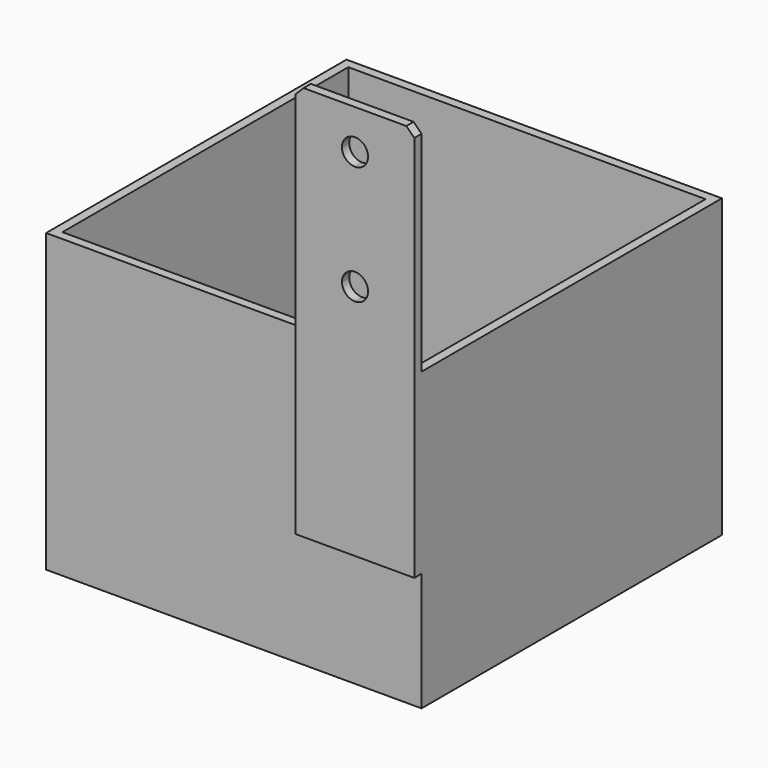
from build123d import *

# Parameters (mm, degrees)
F0_W     = 27.7
F0_H     = 45
F0_W_2   = 2.3
F1_DEPTH = 2.3
F2_DEPTH = 95
F4_DEPTH = 72.7


with BuildPart() as f1:
    # F0 (on Front) → F1 (new body)
    with BuildSketch(Plane.XZ):
        with Locations((-90.369921, -12.07692)):
            Rectangle(F0_W, F0_H)
        Polygon((-76.519921, 10.42308), (-74.219921, 10.42308), (-74.219921, 63.42308), (-76.219921, 65.42308), (-102.219921, 65.42308), (-104.219921, 63.42308), (-104.219921, 10.42308), align=None)
        with BuildLine():
            ThreePointArc((-89.219921, 22.12308), (-91.553373, 23.089628), (-92.519921, 25.42308))
            ThreePointArc((-92.519921, 25.42308), (-91.553373, 27.756532), (-89.219921, 28.72308))
            ThreePointArc((-89.219921, 28.72308), (-86.886469, 27.756532), (-85.919921, 25.42308))
            ThreePointArc((-85.919921, 25.42308), (-86.886469, 23.089628), (-89.219921, 22.12308))
        make_face(mode=Mode.SUBTRACT)
        with BuildLine():
            ThreePointArc((-89.219921, 52.12308), (-91.553373, 53.089628), (-92.519921, 55.42308))
            ThreePointArc((-92.519921, 55.42308), (-91.553373, 57.756532), (-89.219921, 58.72308))
            ThreePointArc((-89.219921, 58.72308), (-86.886469, 57.756532), (-85.919921, 55.42308))
            ThreePointArc((-85.919921, 55.42308), (-86.886469, 53.089628), (-89.219921, 52.12308))
        make_face(mode=Mode.SUBTRACT)
        with Locations((-75.369921, -12.07692)):
            Rectangle(F0_W_2, F0_H)
    extrude(amount=F1_DEPTH)

    # F0 (on Front) → F2 (join)
    with BuildSketch(Plane.XZ):
        Polygon((-76.519921, -62.27692), (-76.519921, -34.57692), (-104.219921, -34.57692), (-104.219921, 10.42308), (-166.919921, 10.42308), (-166.919921, -62.27692), align=None)
        Polygon((-169.219921, -64.57692), (-74.219921, -64.57692), (-74.219921, -34.57692), (-76.519921, -34.57692), (-76.519921, -62.27692), (-166.919921, -62.27692), (-166.919921, 10.42308), (-169.219921, 10.42308), align=None)
        with Locations((-90.369921, -12.07692)):
            Rectangle(F0_W, F0_H)
        with Locations((-75.369921, -12.07692)):
            Rectangle(F0_W_2, F0_H)
    extrude(amount=-F2_DEPTH)

    # F3 (on face) → F4 (cut)
    with BuildSketch(Plane.XY.offset(10.42308)):
        Polygon((-104.219921, 2.3), (-76.519921, 2.3), (-76.519921, 92.7), (-166.919921, 92.7), (-166.919921, 2.3), align=None)
    extrude(amount=-F4_DEPTH, mode=Mode.SUBTRACT)


solid = f1.part
